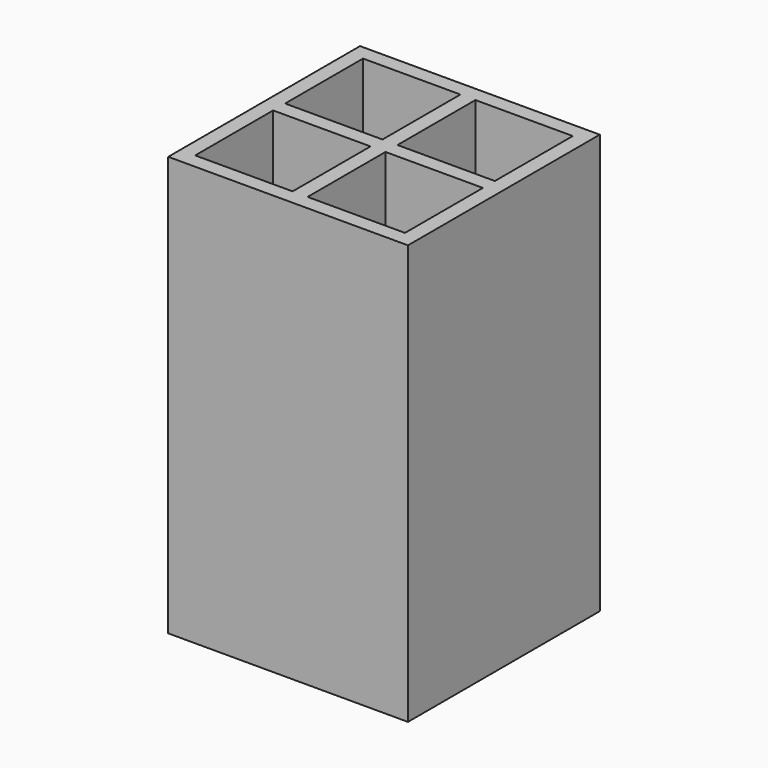
from build123d import *

# Parameters (mm, degrees)
F0_W     = 50.8
F0_H     = 50.8
F0_W_2   = 20.6375
F0_H_2   = 20.6375
F1_DEPTH = 88.9
F2_W     = 20.6375
F2_H     = 20.6375
F3_DEPTH = 3.175


with BuildPart() as f1:
    # F0 (on Top) → F1 (new body)
    with BuildSketch(Plane.XY):
        with Locations((0, -0.03662125)):
            Rectangle(F0_W, F0_H)
        with Locations((-11.90625, -11.94287125)):
            Rectangle(F0_W_2, F0_H_2, mode=Mode.SUBTRACT)
        with Locations((11.90625, -11.94287125)):
            Rectangle(F0_W_2, F0_H_2, mode=Mode.SUBTRACT)
        with Locations((-11.90625, 11.86962875)):
            Rectangle(F0_W_2, F0_H_2, mode=Mode.SUBTRACT)
        with Locations((11.90625, 11.86962875)):
            Rectangle(F0_W_2, F0_H_2, mode=Mode.SUBTRACT)
    extrude(amount=-F1_DEPTH)

    # F2 (on face) → F3 (join)
    with BuildSketch(Plane(origin=(0, 0, -88.9), x_dir=(1, 0, 0), z_dir=(0, 0, -1))):
        with Locations((-11.90625, 11.94287125)):
            Rectangle(F2_W, F2_H)
        with Locations((11.90625, 11.94287125)):
            Rectangle(F2_W, F2_H)
        with Locations((11.90625, -11.86962875)):
            Rectangle(F2_W, F2_H)
        with Locations((-11.90625, -11.86962875)):
            Rectangle(F2_W, F2_H)
    extrude(amount=-F3_DEPTH)


solid = f1.part
